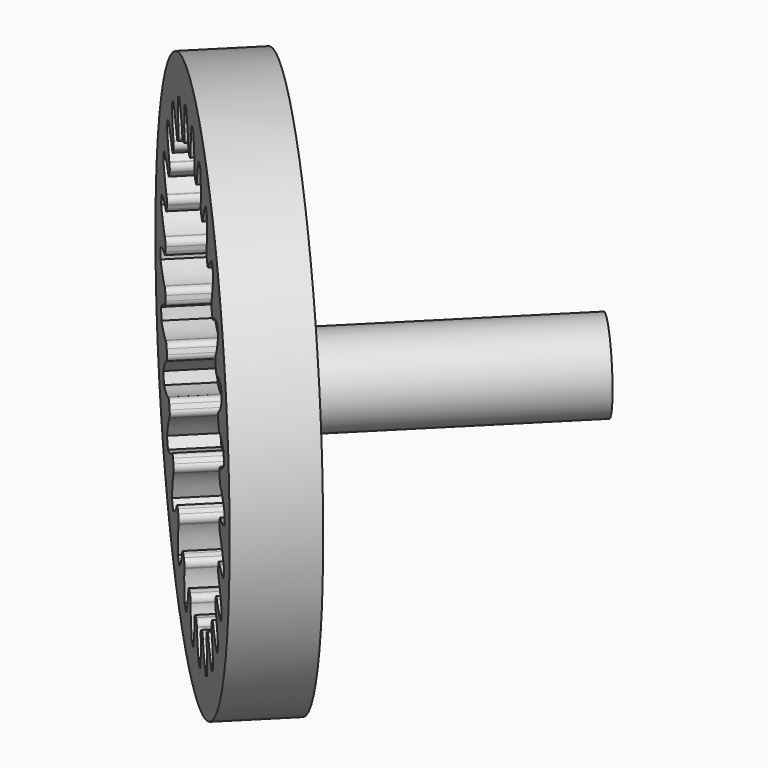
from build123d import *

# Parameters (mm, degrees)
SKETCH040_R             = 12.5
PAD023_DEPTH            = 2
POCKET012_DEPTH         = 2.001
SKETCH041_R             = 12.5
PAD024_DEPTH            = 1.5
POCKET013_DEPTH         = 3.501
SKETCH043_R             = 2
PAD025_DEPTH            = 12
BODY017_ROLL_ANGLE      = -90
BODY017_PLACEMENT_ANGLE = -45


with BuildPart() as part:
    # Sketch040 → Pad023 (new body)
    with BuildSketch(Plane.XY):
        Circle(SKETCH040_R)
    extrude(amount=PAD023_DEPTH)

    # InvoluteGear002 → Pocket012 (cut, through all)
    with BuildSketch(Plane.XY):
        with BuildLine():
            Line((9.429779, -0.670682), (9.462464, -0.672485))
            add(Edge.make_bspline(
                [(9.462464, -0.672485), (9.526401, -0.672813), (9.782228, -0.665747), (10.228882, -0.559536), (10.796766, -0.262578)],
                knots=[0, 0, 0, 0, 0, 1, 1, 1, 1, 1], degree=4))
            ThreePointArc((10.796766, -0.262578), (10.799979, 0.000282), (10.796794, 0.263143))
            add(Edge.make_bspline(
                [(10.796794, 0.263143), (10.228882, 0.559536), (9.782228, 0.665747), (9.526401, 0.672813), (9.462464, 0.672485)],
                knots=[0, 0, 0, 0, 0, 1, 1, 1, 1, 1], degree=4))
            Line((9.462464, 0.672485), (9.429779, 0.670682))
            ThreePointArc((9.429779, 0.670682), (9.231731, 0.732712), (9.134195, 0.9159))
            ThreePointArc((9.134195, 0.9159), (9.122278, 1.027834), (9.108989, 1.139613))
            ThreePointArc((9.108989, 1.139613), (9.163316, 1.339912), (9.342596, 1.444457))
            Line((9.342596, 1.444457), (9.374862, 1.449972))
            add(Edge.make_bspline(
                [(9.374862, 1.449972), (9.437269, 1.46388), (9.68511, 1.527695), (10.096931, 1.730633), (10.584498, 2.146512)],
                knots=[0, 0, 0, 0, 0, 1, 1, 1, 1, 1], degree=4))
            ThreePointArc((10.584498, 2.146512), (10.529138, 2.403497), (10.467541, 2.659058))
            add(Edge.make_bspline(
                [(10.467541, 2.659058), (9.847914, 2.821648), (9.388824, 2.825806), (9.137839, 2.775768), (9.075578, 2.76122)],
                knots=[0, 0, 0, 0, 0, 1, 1, 1, 1, 1], degree=4))
            Line((9.075578, 2.76122), (9.044114, 2.75219))
            ThreePointArc((9.044114, 2.75219), (8.837228, 2.768595), (8.701375, 2.925486))
            ThreePointArc((8.701375, 2.925486), (8.664849, 3.031962), (8.62702, 3.137981))
            ThreePointArc((8.62702, 3.137981), (8.635414, 3.345347), (8.786936, 3.487164))
            Line((8.786936, 3.487164), (8.817165, 3.499721))
            add(Edge.make_bspline(
                [(8.817165, 3.499721), (8.874913, 3.527167), (9.10234, 3.644532), (9.458678, 3.934021), (9.841478, 4.447967)],
                knots=[0, 0, 0, 0, 0, 1, 1, 1, 1, 1], degree=4))
            ThreePointArc((9.841478, 4.447967), (9.730323, 4.68619), (9.613402, 4.921637))
            add(Edge.make_bspline(
                [(9.613402, 4.921637), (8.973131, 4.94227), (8.524626, 4.844167), (8.291068, 4.739534), (8.233605, 4.711497)],
                knots=[0, 0, 0, 0, 0, 1, 1, 1, 1, 1], degree=4))
            Line((8.233605, 4.711497), (8.20494, 4.695691))
            ThreePointArc((8.20494, 4.695691), (7.99959, 4.665649), (7.832232, 4.788376))
            ThreePointArc((7.832232, 4.788376), (7.772928, 4.884054), (7.712456, 4.978998))
            ThreePointArc((7.712456, 4.978998), (7.674496, 5.183033), (7.790662, 5.355011))
            Line((7.790662, 5.355011), (7.817339, 5.37398))
            add(Edge.make_bspline(
                [(7.817339, 5.37398), (7.867532, 5.413588), (8.06314, 5.578617), (8.346127, 5.940141), (8.604966, 6.526382)],
                knots=[0, 0, 0, 0, 0, 1, 1, 1, 1, 1], degree=4))
            ThreePointArc((8.604966, 6.526382), (8.443588, 6.733898), (8.277206, 6.937424))
            add(Edge.make_bspline(
                [(8.277206, 6.937424), (7.648397, 6.815067), (7.232967, 6.619621), (7.028548, 6.46564), (6.978765, 6.425519)],
                knots=[0, 0, 0, 0, 0, 1, 1, 1, 1, 1], degree=4))
            Line((6.978765, 6.425519), (6.954335, 6.403732))
            ThreePointArc((6.954335, 6.403732), (6.760819, 6.328748), (6.570347, 6.411157))
            ThreePointArc((6.570347, 6.411157), (6.49124, 6.49124), (6.411157, 6.570347))
            ThreePointArc((6.411157, 6.570347), (6.328748, 6.760819), (6.403732, 6.954335))
            Line((6.403732, 6.954335), (6.425519, 6.978765))
            add(Edge.make_bspline(
                [(6.425519, 6.978765), (6.46564, 7.028548), (6.619621, 7.232967), (6.815067, 7.648397), (6.936965, 8.277537)],
                knots=[0, 0, 0, 0, 0, 1, 1, 1, 1, 1], degree=4))
            ThreePointArc((6.936965, 8.277537), (6.733456, 8.44394), (6.525958, 8.60534))
            add(Edge.make_bspline(
                [(6.525958, 8.60534), (5.940141, 8.346127), (5.578617, 8.06314), (5.413588, 7.867532), (5.37398, 7.817339)],
                knots=[0, 0, 0, 0, 0, 1, 1, 1, 1, 1], degree=4))
            Line((5.37398, 7.817339), (5.355011, 7.790662))
            ThreePointArc((5.355011, 7.790662), (5.183033, 7.674496), (4.978998, 7.712456))
            ThreePointArc((4.978998, 7.712456), (4.884054, 7.772928), (4.788376, 7.832232))
            ThreePointArc((4.788376, 7.832232), (4.665649, 7.99959), (4.695691, 8.20494))
            Line((4.695691, 8.20494), (4.711497, 8.233605))
            add(Edge.make_bspline(
                [(4.711497, 8.233605), (4.739534, 8.291068), (4.844167, 8.524626), (4.94227, 8.973131), (4.921116, 9.613622)],
                knots=[0, 0, 0, 0, 0, 1, 1, 1, 1, 1], degree=4))
            ThreePointArc((4.921116, 9.613622), (4.685681, 9.730568), (4.44747, 9.841748))
            add(Edge.make_bspline(
                [(4.44747, 9.841748), (3.934021, 9.458678), (3.644532, 9.10234), (3.527167, 8.874913), (3.499721, 8.817165)],
                knots=[0, 0, 0, 0, 0, 1, 1, 1, 1, 1], degree=4))
            Line((3.499721, 8.817165), (3.487164, 8.786936))
            ThreePointArc((3.487164, 8.786936), (3.345347, 8.635414), (3.137981, 8.62702))
            ThreePointArc((3.137981, 8.62702), (3.031962, 8.664849), (2.925486, 8.701375))
            ThreePointArc((2.925486, 8.701375), (2.768595, 8.837228), (2.75219, 9.044114))
            Line((2.75219, 9.044114), (2.76122, 9.075578))
            add(Edge.make_bspline(
                [(2.76122, 9.075578), (2.775768, 9.137839), (2.825806, 9.388824), (2.821648, 9.847914), (2.658501, 10.46764)],
                knots=[0, 0, 0, 0, 0, 1, 1, 1, 1, 1], degree=4))
            ThreePointArc((2.658501, 10.46764), (2.402946, 10.529264), (2.145967, 10.58465))
            add(Edge.make_bspline(
                [(2.145967, 10.58465), (1.730633, 10.096931), (1.527695, 9.68511), (1.46388, 9.437269), (1.449972, 9.374862)],
                knots=[0, 0, 0, 0, 0, 1, 1, 1, 1, 1], degree=4))
            Line((1.449972, 9.374862), (1.444457, 9.342596))
            ThreePointArc((1.444457, 9.342596), (1.339912, 9.163316), (1.139613, 9.108989))
            ThreePointArc((1.139613, 9.108989), (1.027834, 9.122278), (0.9159, 9.134195))
            ThreePointArc((0.9159, 9.134195), (0.732712, 9.231731), (0.670682, 9.429779))
            Line((0.670682, 9.429779), (0.672485, 9.462464))
            add(Edge.make_bspline(
                [(0.672485, 9.462464), (0.672813, 9.526401), (0.665747, 9.782228), (0.559536, 10.228882), (0.262578, 10.796766)],
                knots=[0, 0, 0, 0, 0, 1, 1, 1, 1, 1], degree=4))
            ThreePointArc((0.262578, 10.796766), (-0.000282, 10.799979), (-0.263143, 10.796794))
            add(Edge.make_bspline(
                [(-0.263143, 10.796794), (-0.559536, 10.228882), (-0.665747, 9.782228), (-0.672813, 9.526401), (-0.672485, 9.462464)],
                knots=[0, 0, 0, 0, 0, 1, 1, 1, 1, 1], degree=4))
            Line((-0.672485, 9.462464), (-0.670682, 9.429779))
            ThreePointArc((-0.670682, 9.429779), (-0.732712, 9.231731), (-0.9159, 9.134195))
            ThreePointArc((-0.9159, 9.134195), (-1.027834, 9.122278), (-1.139613, 9.108989))
            ThreePointArc((-1.139613, 9.108989), (-1.339912, 9.163316), (-1.444457, 9.342596))
            Line((-1.444457, 9.342596), (-1.449972, 9.374862))
            add(Edge.make_bspline(
                [(-1.449972, 9.374862), (-1.46388, 9.437269), (-1.527695, 9.68511), (-1.730633, 10.096931), (-2.146512, 10.584498)],
                knots=[0, 0, 0, 0, 0, 1, 1, 1, 1, 1], degree=4))
            ThreePointArc((-2.146512, 10.584498), (-2.403497, 10.529138), (-2.659058, 10.467541))
            add(Edge.make_bspline(
                [(-2.659058, 10.467541), (-2.821648, 9.847914), (-2.825806, 9.388824), (-2.775768, 9.137839), (-2.76122, 9.075578)],
                knots=[0, 0, 0, 0, 0, 1, 1, 1, 1, 1], degree=4))
            Line((-2.76122, 9.075578), (-2.75219, 9.044114))
            ThreePointArc((-2.75219, 9.044114), (-2.768595, 8.837228), (-2.925486, 8.701375))
            ThreePointArc((-2.925486, 8.701375), (-3.031962, 8.664849), (-3.137981, 8.62702))
            ThreePointArc((-3.137981, 8.62702), (-3.345347, 8.635414), (-3.487164, 8.786936))
            Line((-3.487164, 8.786936), (-3.499721, 8.817165))
            add(Edge.make_bspline(
                [(-3.499721, 8.817165), (-3.527167, 8.874913), (-3.644532, 9.10234), (-3.934021, 9.458678), (-4.447967, 9.841478)],
                knots=[0, 0, 0, 0, 0, 1, 1, 1, 1, 1], degree=4))
            ThreePointArc((-4.447967, 9.841478), (-4.68619, 9.730323), (-4.921637, 9.613402))
            add(Edge.make_bspline(
                [(-4.921637, 9.613402), (-4.94227, 8.973131), (-4.844167, 8.524626), (-4.739534, 8.291068), (-4.711497, 8.233605)],
                knots=[0, 0, 0, 0, 0, 1, 1, 1, 1, 1], degree=4))
            Line((-4.711497, 8.233605), (-4.695691, 8.20494))
            ThreePointArc((-4.695691, 8.20494), (-4.665649, 7.99959), (-4.788376, 7.832232))
            ThreePointArc((-4.788376, 7.832232), (-4.884054, 7.772928), (-4.978998, 7.712456))
            ThreePointArc((-4.978998, 7.712456), (-5.183033, 7.674496), (-5.355011, 7.790662))
            Line((-5.355011, 7.790662), (-5.37398, 7.817339))
            add(Edge.make_bspline(
                [(-5.37398, 7.817339), (-5.413588, 7.867532), (-5.578617, 8.06314), (-5.940141, 8.346127), (-6.526382, 8.604966)],
                knots=[0, 0, 0, 0, 0, 1, 1, 1, 1, 1], degree=4))
            ThreePointArc((-6.526382, 8.604966), (-6.733898, 8.443588), (-6.937424, 8.277206))
            add(Edge.make_bspline(
                [(-6.937424, 8.277206), (-6.815067, 7.648397), (-6.619621, 7.232967), (-6.46564, 7.028548), (-6.425519, 6.978765)],
                knots=[0, 0, 0, 0, 0, 1, 1, 1, 1, 1], degree=4))
            Line((-6.425519, 6.978765), (-6.403732, 6.954335))
            ThreePointArc((-6.403732, 6.954335), (-6.328748, 6.760819), (-6.411157, 6.570347))
            ThreePointArc((-6.411157, 6.570347), (-6.49124, 6.49124), (-6.570347, 6.411157))
            ThreePointArc((-6.570347, 6.411157), (-6.760819, 6.328748), (-6.954335, 6.403732))
            Line((-6.954335, 6.403732), (-6.978765, 6.425519))
            add(Edge.make_bspline(
                [(-6.978765, 6.425519), (-7.028548, 6.46564), (-7.232967, 6.619621), (-7.648397, 6.815067), (-8.277537, 6.936965)],
                knots=[0, 0, 0, 0, 0, 1, 1, 1, 1, 1], degree=4))
            ThreePointArc((-8.277537, 6.936965), (-8.44394, 6.733456), (-8.60534, 6.525958))
            add(Edge.make_bspline(
                [(-8.60534, 6.525958), (-8.346127, 5.940141), (-8.06314, 5.578617), (-7.867532, 5.413588), (-7.817339, 5.37398)],
                knots=[0, 0, 0, 0, 0, 1, 1, 1, 1, 1], degree=4))
            Line((-7.817339, 5.37398), (-7.790662, 5.355011))
            ThreePointArc((-7.790662, 5.355011), (-7.674496, 5.183033), (-7.712456, 4.978998))
            ThreePointArc((-7.712456, 4.978998), (-7.772928, 4.884054), (-7.832232, 4.788376))
            ThreePointArc((-7.832232, 4.788376), (-7.99959, 4.665649), (-8.20494, 4.695691))
            Line((-8.20494, 4.695691), (-8.233605, 4.711497))
            add(Edge.make_bspline(
                [(-8.233605, 4.711497), (-8.291068, 4.739534), (-8.524626, 4.844167), (-8.973131, 4.94227), (-9.613622, 4.921116)],
                knots=[0, 0, 0, 0, 0, 1, 1, 1, 1, 1], degree=4))
            ThreePointArc((-9.613622, 4.921116), (-9.730568, 4.685681), (-9.841748, 4.44747))
            add(Edge.make_bspline(
                [(-9.841748, 4.44747), (-9.458678, 3.934021), (-9.10234, 3.644532), (-8.874913, 3.527167), (-8.817165, 3.499721)],
                knots=[0, 0, 0, 0, 0, 1, 1, 1, 1, 1], degree=4))
            Line((-8.817165, 3.499721), (-8.786936, 3.487164))
            ThreePointArc((-8.786936, 3.487164), (-8.635414, 3.345347), (-8.62702, 3.137981))
            ThreePointArc((-8.62702, 3.137981), (-8.664849, 3.031962), (-8.701375, 2.925486))
            ThreePointArc((-8.701375, 2.925486), (-8.837228, 2.768595), (-9.044114, 2.75219))
            Line((-9.044114, 2.75219), (-9.075578, 2.76122))
            add(Edge.make_bspline(
                [(-9.075578, 2.76122), (-9.137839, 2.775768), (-9.388824, 2.825806), (-9.847914, 2.821648), (-10.46764, 2.658501)],
                knots=[0, 0, 0, 0, 0, 1, 1, 1, 1, 1], degree=4))
            ThreePointArc((-10.46764, 2.658501), (-10.529264, 2.402946), (-10.58465, 2.145967))
            add(Edge.make_bspline(
                [(-10.58465, 2.145967), (-10.096931, 1.730633), (-9.68511, 1.527695), (-9.437269, 1.46388), (-9.374862, 1.449972)],
                knots=[0, 0, 0, 0, 0, 1, 1, 1, 1, 1], degree=4))
            Line((-9.374862, 1.449972), (-9.342596, 1.444457))
            ThreePointArc((-9.342596, 1.444457), (-9.163316, 1.339912), (-9.108989, 1.139613))
            ThreePointArc((-9.108989, 1.139613), (-9.122278, 1.027834), (-9.134195, 0.9159))
            ThreePointArc((-9.134195, 0.9159), (-9.231731, 0.732712), (-9.429779, 0.670682))
            Line((-9.429779, 0.670682), (-9.462464, 0.672485))
            add(Edge.make_bspline(
                [(-9.462464, 0.672485), (-9.526401, 0.672813), (-9.782228, 0.665747), (-10.228882, 0.559536), (-10.796766, 0.262578)],
                knots=[0, 0, 0, 0, 0, 1, 1, 1, 1, 1], degree=4))
            ThreePointArc((-10.796766, 0.262578), (-10.799979, -0.000282), (-10.796794, -0.263143))
            add(Edge.make_bspline(
                [(-10.796794, -0.263143), (-10.228882, -0.559536), (-9.782228, -0.665747), (-9.526401, -0.672813), (-9.462464, -0.672485)],
                knots=[0, 0, 0, 0, 0, 1, 1, 1, 1, 1], degree=4))
            Line((-9.462464, -0.672485), (-9.429779, -0.670682))
            ThreePointArc((-9.429779, -0.670682), (-9.231731, -0.732712), (-9.134195, -0.9159))
            ThreePointArc((-9.134195, -0.9159), (-9.122278, -1.027834), (-9.108989, -1.139613))
            ThreePointArc((-9.108989, -1.139613), (-9.163316, -1.339912), (-9.342596, -1.444457))
            Line((-9.342596, -1.444457), (-9.374862, -1.449972))
            add(Edge.make_bspline(
                [(-9.374862, -1.449972), (-9.437269, -1.46388), (-9.68511, -1.527695), (-10.096931, -1.730633), (-10.584498, -2.146512)],
                knots=[0, 0, 0, 0, 0, 1, 1, 1, 1, 1], degree=4))
            ThreePointArc((-10.584498, -2.146512), (-10.529138, -2.403497), (-10.467541, -2.659058))
            add(Edge.make_bspline(
                [(-10.467541, -2.659058), (-9.847914, -2.821648), (-9.388824, -2.825806), (-9.137839, -2.775768), (-9.075578, -2.76122)],
                knots=[0, 0, 0, 0, 0, 1, 1, 1, 1, 1], degree=4))
            Line((-9.075578, -2.76122), (-9.044114, -2.75219))
            ThreePointArc((-9.044114, -2.75219), (-8.837228, -2.768595), (-8.701375, -2.925486))
            ThreePointArc((-8.701375, -2.925486), (-8.664849, -3.031962), (-8.62702, -3.137981))
            ThreePointArc((-8.62702, -3.137981), (-8.635414, -3.345347), (-8.786936, -3.487164))
            Line((-8.786936, -3.487164), (-8.817165, -3.499721))
            add(Edge.make_bspline(
                [(-8.817165, -3.499721), (-8.874913, -3.527167), (-9.10234, -3.644532), (-9.458678, -3.934021), (-9.841478, -4.447967)],
                knots=[0, 0, 0, 0, 0, 1, 1, 1, 1, 1], degree=4))
            ThreePointArc((-9.841478, -4.447967), (-9.730323, -4.68619), (-9.613402, -4.921637))
            add(Edge.make_bspline(
                [(-9.613402, -4.921637), (-8.973131, -4.94227), (-8.524626, -4.844167), (-8.291068, -4.739534), (-8.233605, -4.711497)],
                knots=[0, 0, 0, 0, 0, 1, 1, 1, 1, 1], degree=4))
            Line((-8.233605, -4.711497), (-8.20494, -4.695691))
            ThreePointArc((-8.20494, -4.695691), (-7.99959, -4.665649), (-7.832232, -4.788376))
            ThreePointArc((-7.832232, -4.788376), (-7.772928, -4.884054), (-7.712456, -4.978998))
            ThreePointArc((-7.712456, -4.978998), (-7.674496, -5.183033), (-7.790662, -5.355011))
            Line((-7.790662, -5.355011), (-7.817339, -5.37398))
            add(Edge.make_bspline(
                [(-7.817339, -5.37398), (-7.867532, -5.413588), (-8.06314, -5.578617), (-8.346127, -5.940141), (-8.604966, -6.526382)],
                knots=[0, 0, 0, 0, 0, 1, 1, 1, 1, 1], degree=4))
            ThreePointArc((-8.604966, -6.526382), (-8.443588, -6.733898), (-8.277206, -6.937424))
            add(Edge.make_bspline(
                [(-8.277206, -6.937424), (-7.648397, -6.815067), (-7.232967, -6.619621), (-7.028548, -6.46564), (-6.978765, -6.425519)],
                knots=[0, 0, 0, 0, 0, 1, 1, 1, 1, 1], degree=4))
            Line((-6.978765, -6.425519), (-6.954335, -6.403732))
            ThreePointArc((-6.954335, -6.403732), (-6.760819, -6.328748), (-6.570347, -6.411157))
            ThreePointArc((-6.570347, -6.411157), (-6.49124, -6.49124), (-6.411157, -6.570347))
            ThreePointArc((-6.411157, -6.570347), (-6.328748, -6.760819), (-6.403732, -6.954335))
            Line((-6.403732, -6.954335), (-6.425519, -6.978765))
            add(Edge.make_bspline(
                [(-6.425519, -6.978765), (-6.46564, -7.028548), (-6.619621, -7.232967), (-6.815067, -7.648397), (-6.936965, -8.277537)],
                knots=[0, 0, 0, 0, 0, 1, 1, 1, 1, 1], degree=4))
            ThreePointArc((-6.936965, -8.277537), (-6.733456, -8.44394), (-6.525958, -8.60534))
            add(Edge.make_bspline(
                [(-6.525958, -8.60534), (-5.940141, -8.346127), (-5.578617, -8.06314), (-5.413588, -7.867532), (-5.37398, -7.817339)],
                knots=[0, 0, 0, 0, 0, 1, 1, 1, 1, 1], degree=4))
            Line((-5.37398, -7.817339), (-5.355011, -7.790662))
            ThreePointArc((-5.355011, -7.790662), (-5.183033, -7.674496), (-4.978998, -7.712456))
            ThreePointArc((-4.978998, -7.712456), (-4.884054, -7.772928), (-4.788376, -7.832232))
            ThreePointArc((-4.788376, -7.832232), (-4.665649, -7.99959), (-4.695691, -8.20494))
            Line((-4.695691, -8.20494), (-4.711497, -8.233605))
            add(Edge.make_bspline(
                [(-4.711497, -8.233605), (-4.739534, -8.291068), (-4.844167, -8.524626), (-4.94227, -8.973131), (-4.921116, -9.613622)],
                knots=[0, 0, 0, 0, 0, 1, 1, 1, 1, 1], degree=4))
            ThreePointArc((-4.921116, -9.613622), (-4.685681, -9.730568), (-4.44747, -9.841748))
            add(Edge.make_bspline(
                [(-4.44747, -9.841748), (-3.934021, -9.458678), (-3.644532, -9.10234), (-3.527167, -8.874913), (-3.499721, -8.817165)],
                knots=[0, 0, 0, 0, 0, 1, 1, 1, 1, 1], degree=4))
            Line((-3.499721, -8.817165), (-3.487164, -8.786936))
            ThreePointArc((-3.487164, -8.786936), (-3.345347, -8.635414), (-3.137981, -8.62702))
            ThreePointArc((-3.137981, -8.62702), (-3.031962, -8.664849), (-2.925486, -8.701375))
            ThreePointArc((-2.925486, -8.701375), (-2.768595, -8.837228), (-2.75219, -9.044114))
            Line((-2.75219, -9.044114), (-2.76122, -9.075578))
            add(Edge.make_bspline(
                [(-2.76122, -9.075578), (-2.775768, -9.137839), (-2.825806, -9.388824), (-2.821648, -9.847914), (-2.658501, -10.46764)],
                knots=[0, 0, 0, 0, 0, 1, 1, 1, 1, 1], degree=4))
            ThreePointArc((-2.658501, -10.46764), (-2.402946, -10.529264), (-2.145967, -10.58465))
            add(Edge.make_bspline(
                [(-2.145967, -10.58465), (-1.730633, -10.096931), (-1.527695, -9.68511), (-1.46388, -9.437269), (-1.449972, -9.374862)],
                knots=[0, 0, 0, 0, 0, 1, 1, 1, 1, 1], degree=4))
            Line((-1.449972, -9.374862), (-1.444457, -9.342596))
            ThreePointArc((-1.444457, -9.342596), (-1.339912, -9.163316), (-1.139613, -9.108989))
            ThreePointArc((-1.139613, -9.108989), (-1.027834, -9.122278), (-0.9159, -9.134195))
            ThreePointArc((-0.9159, -9.134195), (-0.732712, -9.231731), (-0.670682, -9.429779))
            Line((-0.670682, -9.429779), (-0.672485, -9.462464))
            add(Edge.make_bspline(
                [(-0.672485, -9.462464), (-0.672813, -9.526401), (-0.665747, -9.782228), (-0.559536, -10.228882), (-0.262578, -10.796766)],
                knots=[0, 0, 0, 0, 0, 1, 1, 1, 1, 1], degree=4))
            ThreePointArc((-0.262578, -10.796766), (0.000282, -10.799979), (0.263143, -10.796794))
            add(Edge.make_bspline(
                [(0.263143, -10.796794), (0.559536, -10.228882), (0.665747, -9.782228), (0.672813, -9.526401), (0.672485, -9.462464)],
                knots=[0, 0, 0, 0, 0, 1, 1, 1, 1, 1], degree=4))
            Line((0.672485, -9.462464), (0.670682, -9.429779))
            ThreePointArc((0.670682, -9.429779), (0.732712, -9.231731), (0.9159, -9.134195))
            ThreePointArc((0.9159, -9.134195), (1.027834, -9.122278), (1.139613, -9.108989))
            ThreePointArc((1.139613, -9.108989), (1.339912, -9.163316), (1.444457, -9.342596))
            Line((1.444457, -9.342596), (1.449972, -9.374862))
            add(Edge.make_bspline(
                [(1.449972, -9.374862), (1.46388, -9.437269), (1.527695, -9.68511), (1.730633, -10.096931), (2.146512, -10.584498)],
                knots=[0, 0, 0, 0, 0, 1, 1, 1, 1, 1], degree=4))
            ThreePointArc((2.146512, -10.584498), (2.403497, -10.529138), (2.659058, -10.467541))
            add(Edge.make_bspline(
                [(2.659058, -10.467541), (2.821648, -9.847914), (2.825806, -9.388824), (2.775768, -9.137839), (2.76122, -9.075578)],
                knots=[0, 0, 0, 0, 0, 1, 1, 1, 1, 1], degree=4))
            Line((2.76122, -9.075578), (2.75219, -9.044114))
            ThreePointArc((2.75219, -9.044114), (2.768595, -8.837228), (2.925486, -8.701375))
            ThreePointArc((2.925486, -8.701375), (3.031962, -8.664849), (3.137981, -8.62702))
            ThreePointArc((3.137981, -8.62702), (3.345347, -8.635414), (3.487164, -8.786936))
            Line((3.487164, -8.786936), (3.499721, -8.817165))
            add(Edge.make_bspline(
                [(3.499721, -8.817165), (3.527167, -8.874913), (3.644532, -9.10234), (3.934021, -9.458678), (4.447967, -9.841478)],
                knots=[0, 0, 0, 0, 0, 1, 1, 1, 1, 1], degree=4))
            ThreePointArc((4.447967, -9.841478), (4.68619, -9.730323), (4.921637, -9.613402))
            add(Edge.make_bspline(
                [(4.921637, -9.613402), (4.94227, -8.973131), (4.844167, -8.524626), (4.739534, -8.291068), (4.711497, -8.233605)],
                knots=[0, 0, 0, 0, 0, 1, 1, 1, 1, 1], degree=4))
            Line((4.711497, -8.233605), (4.695691, -8.20494))
            ThreePointArc((4.695691, -8.20494), (4.665649, -7.99959), (4.788376, -7.832232))
            ThreePointArc((4.788376, -7.832232), (4.884054, -7.772928), (4.978998, -7.712456))
            ThreePointArc((4.978998, -7.712456), (5.183033, -7.674496), (5.355011, -7.790662))
            Line((5.355011, -7.790662), (5.37398, -7.817339))
            add(Edge.make_bspline(
                [(5.37398, -7.817339), (5.413588, -7.867532), (5.578617, -8.06314), (5.940141, -8.346127), (6.526382, -8.604966)],
                knots=[0, 0, 0, 0, 0, 1, 1, 1, 1, 1], degree=4))
            ThreePointArc((6.526382, -8.604966), (6.733898, -8.443588), (6.937424, -8.277206))
            add(Edge.make_bspline(
                [(6.937424, -8.277206), (6.815067, -7.648397), (6.619621, -7.232967), (6.46564, -7.028548), (6.425519, -6.978765)],
                knots=[0, 0, 0, 0, 0, 1, 1, 1, 1, 1], degree=4))
            Line((6.425519, -6.978765), (6.403732, -6.954335))
            ThreePointArc((6.403732, -6.954335), (6.328748, -6.760819), (6.411157, -6.570347))
            ThreePointArc((6.411157, -6.570347), (6.49124, -6.49124), (6.570347, -6.411157))
            ThreePointArc((6.570347, -6.411157), (6.760819, -6.328748), (6.954335, -6.403732))
            Line((6.954335, -6.403732), (6.978765, -6.425519))
            add(Edge.make_bspline(
                [(6.978765, -6.425519), (7.028548, -6.46564), (7.232967, -6.619621), (7.648397, -6.815067), (8.277537, -6.936965)],
                knots=[0, 0, 0, 0, 0, 1, 1, 1, 1, 1], degree=4))
            ThreePointArc((8.277537, -6.936965), (8.44394, -6.733456), (8.60534, -6.525958))
            add(Edge.make_bspline(
                [(8.60534, -6.525958), (8.346127, -5.940141), (8.06314, -5.578617), (7.867532, -5.413588), (7.817339, -5.37398)],
                knots=[0, 0, 0, 0, 0, 1, 1, 1, 1, 1], degree=4))
            Line((7.817339, -5.37398), (7.790662, -5.355011))
            ThreePointArc((7.790662, -5.355011), (7.674496, -5.183033), (7.712456, -4.978998))
            ThreePointArc((7.712456, -4.978998), (7.772928, -4.884054), (7.832232, -4.788376))
            ThreePointArc((7.832232, -4.788376), (7.99959, -4.665649), (8.20494, -4.695691))
            Line((8.20494, -4.695691), (8.233605, -4.711497))
            add(Edge.make_bspline(
                [(8.233605, -4.711497), (8.291068, -4.739534), (8.524626, -4.844167), (8.973131, -4.94227), (9.613622, -4.921116)],
                knots=[0, 0, 0, 0, 0, 1, 1, 1, 1, 1], degree=4))
            ThreePointArc((9.613622, -4.921116), (9.730568, -4.685681), (9.841748, -4.44747))
            add(Edge.make_bspline(
                [(9.841748, -4.44747), (9.458678, -3.934021), (9.10234, -3.644532), (8.874913, -3.527167), (8.817165, -3.499721)],
                knots=[0, 0, 0, 0, 0, 1, 1, 1, 1, 1], degree=4))
            Line((8.817165, -3.499721), (8.786936, -3.487164))
            ThreePointArc((8.786936, -3.487164), (8.635414, -3.345347), (8.62702, -3.137981))
            ThreePointArc((8.62702, -3.137981), (8.664849, -3.031962), (8.701375, -2.925486))
            ThreePointArc((8.701375, -2.925486), (8.837228, -2.768595), (9.044114, -2.75219))
            Line((9.044114, -2.75219), (9.075578, -2.76122))
            add(Edge.make_bspline(
                [(9.075578, -2.76122), (9.137839, -2.775768), (9.388824, -2.825806), (9.847914, -2.821648), (10.46764, -2.658501)],
                knots=[0, 0, 0, 0, 0, 1, 1, 1, 1, 1], degree=4))
            ThreePointArc((10.46764, -2.658501), (10.529264, -2.402946), (10.58465, -2.145967))
            add(Edge.make_bspline(
                [(10.58465, -2.145967), (10.096931, -1.730633), (9.68511, -1.527695), (9.437269, -1.46388), (9.374862, -1.449972)],
                knots=[0, 0, 0, 0, 0, 1, 1, 1, 1, 1], degree=4))
            Line((9.374862, -1.449972), (9.342596, -1.444457))
            ThreePointArc((9.342596, -1.444457), (9.163316, -1.339912), (9.108989, -1.139613))
            ThreePointArc((9.108989, -1.139613), (9.122278, -1.027834), (9.134195, -0.9159))
            ThreePointArc((9.134195, -0.9159), (9.231731, -0.732712), (9.429779, -0.670682))
        make_face()
    extrude(amount=POCKET012_DEPTH, mode=Mode.SUBTRACT)

    # Sketch041 (on Face3 of Pocket012) → Pad024 (join)
    with BuildSketch(Plane.XY.offset(2)):
        Circle(SKETCH041_R)
    extrude(amount=PAD024_DEPTH)

    # Sketch042 (on Face228 of Pad024) → Pocket013 (cut, through all)
    with BuildSketch(Plane.XY.offset(3.5)):
        with BuildLine():
            Line((-8.774964, -2), (-2, -2))
            Line((-2, -2), (-2, -8.774964))
            ThreePointArc((-8.774964, -2), (-6.363961, -6.363961), (-2, -8.774964))
        make_face()
        with BuildLine():
            Line((-8.774964, 2), (-2, 2))
            Line((-2, 2), (-2, 8.774964))
            ThreePointArc((-2, 8.774964), (-6.363961, 6.363961), (-8.774964, 2))
        make_face()
        with BuildLine():
            Line((2, -8.774964), (2, -2))
            Line((2, -2), (8.774964, -2))
            ThreePointArc((2, -8.774964), (6.363961, -6.363961), (8.774964, -2))
        make_face()
        with BuildLine():
            Line((2, 2), (8.774964, 2))
            ThreePointArc((8.774964, 2), (6.363961, 6.363961), (2, 8.774964))
            Line((2, 2), (2, 8.774964))
        make_face()
    extrude(amount=-POCKET013_DEPTH, mode=Mode.SUBTRACT)

    # Sketch043 (on Face228 of Pocket013) → Pad025 (join)
    with BuildSketch(Plane.XY.offset(3.5)):
        Circle(SKETCH043_R)
    extrude(amount=PAD025_DEPTH)


with BuildPart() as part_1:
    # Body017 roll: moved
    add(part.part.rotate(Axis((0, 0, 0), (1, 0, 0)), BODY017_ROLL_ANGLE))


with BuildPart() as part_2:
    # Body017 placement: moved
    add(part_1.part.moved(Location((46.5, 46.5, -6))).rotate(Axis((46.5, 46.5, -6), (0, 0, 1)), BODY017_PLACEMENT_ANGLE))


solid = part_2.part
